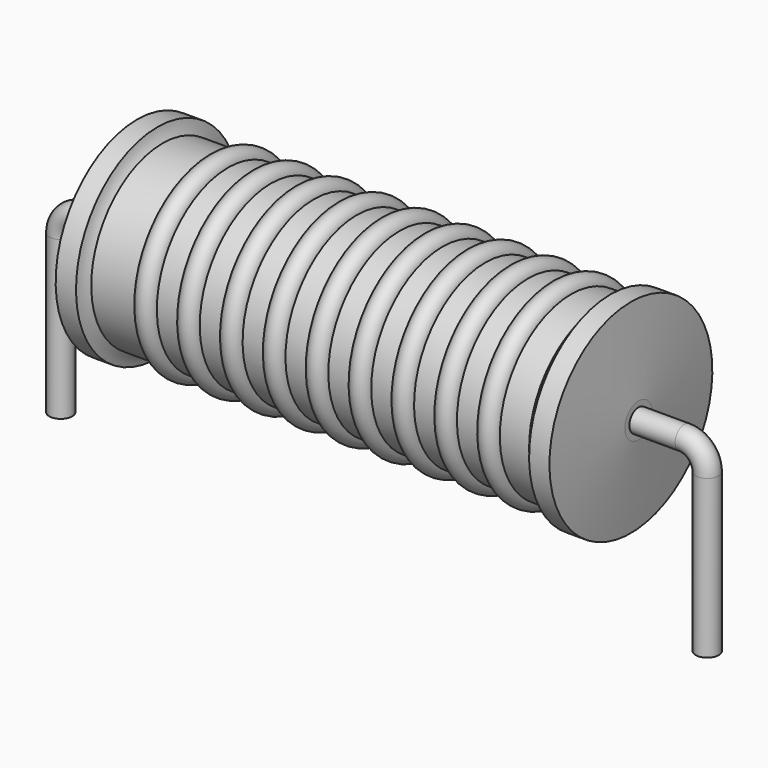
from build123d import *

# Parameters (mm, degrees)
SKETCH_R = 0.45


with BuildPart() as sweep_body:
    # Sweep: sweep along a path in Sketch001
    with BuildLine(Plane.XZ) as sweep_path:
        Line((0, -3), (0, 3.2))
        ThreePointArc((0, 3.2), (0.263607, 3.836399), (0.900008, 4.1))
        Line((0.900008, 4.1), (24.5, 4.1))
        ThreePointArc((24.5, 4.1), (25.136396, 3.836396), (25.4, 3.2))
        Line((25.4, 3.2), (25.4, -3))
    # Sketch → Sweep (sweep)
    with BuildSketch(Plane.XY.offset(-2)):
        Circle(SKETCH_R)
    sweep(path=sweep_path.line)


with BuildPart() as revolution001:
    # Sketch003 → Revolution001 (revolve)
    with BuildSketch(Plane.XZ):
        with BuildLine():
            ThreePointArc((6.584211, 7.52), (6.163158, 7.941053), (5.742105, 7.52))
            Line((4.9, 7.52), (5.742105, 7.52))
            Line((4.9, 7.52), (4.9, 6.72))
            Line((4.9, 6.72), (20.9, 6.72))
            Line((20.9, 6.72), (20.9, 7.52))
            Line((20.057895, 7.52), (20.9, 7.52))
            ThreePointArc((20.057895, 7.52), (19.636842, 7.941053), (19.215789, 7.52))
            Line((18.373684, 7.52), (19.215789, 7.52))
            ThreePointArc((18.373684, 7.52), (17.952632, 7.941053), (17.531579, 7.52))
            Line((16.689474, 7.52), (17.531579, 7.52))
            ThreePointArc((16.689474, 7.52), (16.268421, 7.941053), (15.847368, 7.52))
            Line((15.005263, 7.52), (15.847368, 7.52))
            ThreePointArc((15.005263, 7.52), (14.584211, 7.941053), (14.163158, 7.52))
            Line((13.321053, 7.52), (14.163158, 7.52))
            ThreePointArc((13.321053, 7.52), (12.9, 7.941053), (12.478947, 7.52))
            Line((11.636842, 7.52), (12.478947, 7.52))
            ThreePointArc((11.636842, 7.52), (11.215789, 7.941053), (10.794737, 7.52))
            Line((9.952632, 7.52), (10.794737, 7.52))
            ThreePointArc((9.952632, 7.52), (9.531579, 7.941053), (9.110526, 7.52))
            Line((8.268421, 7.52), (9.110526, 7.52))
            ThreePointArc((8.268421, 7.52), (7.847368, 7.941053), (7.426316, 7.52))
            Line((6.584211, 7.52), (7.426316, 7.52))
        make_face()
    revolve(axis=Axis((3.2, 0, 4.1), (1, 0, 0)))


with BuildPart() as obj1:
    # Sketch002 → Revolution (revolve)
    with BuildSketch(Plane.XZ):
        with BuildLine():
            Line((3, 8.1), (3.8, 8.1))
            ThreePointArc((3.8, 8.1), (3.870924, 7.838882), (3.998, 7.6))
            Line((3.998, 7.6), (21.2, 7.6))
            ThreePointArc((21.2, 7.6), (21.425765, 7.829388), (21.6, 8.1))
            Line((21.6, 8.1), (22.4, 8.1))
            ThreePointArc((22.7, 4.775), (22.555904, 6.438033), (22.4, 8.1))
            Line((22.7, 4.1), (22.7, 4.775))
            Line((2.7, 4.1), (22.7, 4.1))
            Line((2.7, 4.1), (2.7, 4.775))
            ThreePointArc((3, 8.1), (2.844096, 6.438033), (2.7, 4.775))
        make_face()
    revolve(axis=Axis((2.7, 0, 4.1), (1, 0, 0)))

    # obj1: union Sweep body, Revolution001
    add(sweep_body.part)
    add(revolution001.part)


solid = obj1.part
